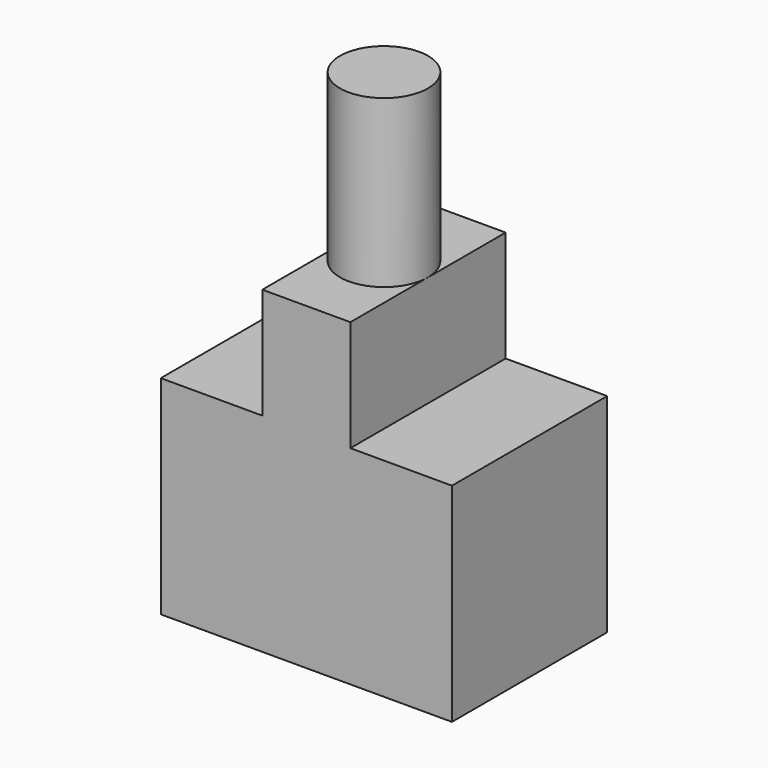
from build123d import *

# Parameters (mm, degrees)
F2_DEPTH = 3.5
F3_R     = 1.5875
F4_DEPTH = 6


with BuildPart() as f2:
    # F1 (on Front) → F2 (new body, symmetric)
    with BuildSketch(Plane.XZ):
        Polygon((1.5875, -4), (1.5875, 0), (-1.5875, 0), (-1.5875, -4), (-5.25, -4), (-5.25, -11.5), (5.25, -11.5), (5.25, -4), align=None)
    extrude(amount=F2_DEPTH, both=True)

    # F3 (on Top) → F4 (join)
    with BuildSketch(Plane.XY):
        Circle(F3_R)
    extrude(amount=F4_DEPTH)


solid = f2.part
